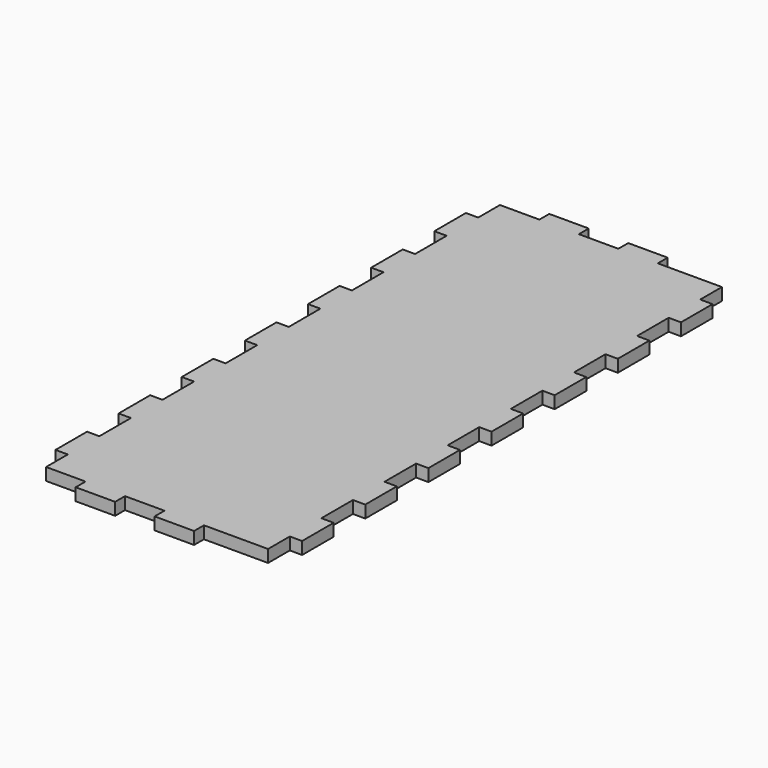
from build123d import *

# Parameters (mm, degrees)
F1_DEPTH = 6.35


with BuildPart() as f1:
    # F0 (on Top) → F1 (new body)
    with BuildSketch(Plane.XY):
        Polygon((57.15, 132.08), (57.15, 146.05), (24.13, 146.05), (24.13, 152.4), (3.81, 152.4), (3.81, 146.05), (-16.51, 146.05), (-16.51, 152.4), (-36.83, 152.4), (-36.83, 146.05), (-57.15, 146.05), (-57.15, 132.08), (-63.5, 132.08), (-63.5, 111.76), (-57.15, 111.76), (-57.15, 91.44), (-63.5, 91.44), (-63.5, 71.12), (-57.15, 71.12), (-57.15, 50.8), (-63.5, 50.8), (-63.5, 30.48), (-57.15, 30.48), (-57.15, 10.16), (-63.5, 10.16), (-63.5, -10.16), (-57.15, -10.16), (-57.15, -30.48), (-63.5, -30.48), (-63.5, -50.8), (-57.15, -50.8), (-57.15, -71.12), (-63.5, -71.12), (-63.5, -91.44), (-57.15, -91.44), (-57.15, -111.76), (-63.5, -111.76), (-63.5, -132.08), (-57.15, -132.08), (-57.15, -146.05), (-36.83, -146.05), (-36.83, -152.4), (-16.51, -152.4), (-16.51, -146.05), (3.81, -146.05), (3.81, -152.4), (24.13, -152.4), (24.13, -146.05), (57.15, -146.05), (57.15, -132.08), (63.5, -132.08), (63.5, -111.76), (57.15, -111.76), (57.15, -91.44), (63.5, -91.44), (63.5, -71.12), (57.15, -71.12), (57.15, -50.8), (63.5, -50.8), (63.5, -30.48), (57.15, -30.48), (57.15, -10.16), (63.5, -10.16), (63.5, 10.16), (57.15, 10.16), (57.15, 30.48), (63.5, 30.48), (63.5, 50.8), (57.15, 50.8), (57.15, 71.12), (63.5, 71.12), (63.5, 91.44), (57.15, 91.44), (57.15, 111.76), (63.5, 111.76), (63.5, 132.08), align=None)
    extrude(amount=F1_DEPTH)


solid = f1.part
